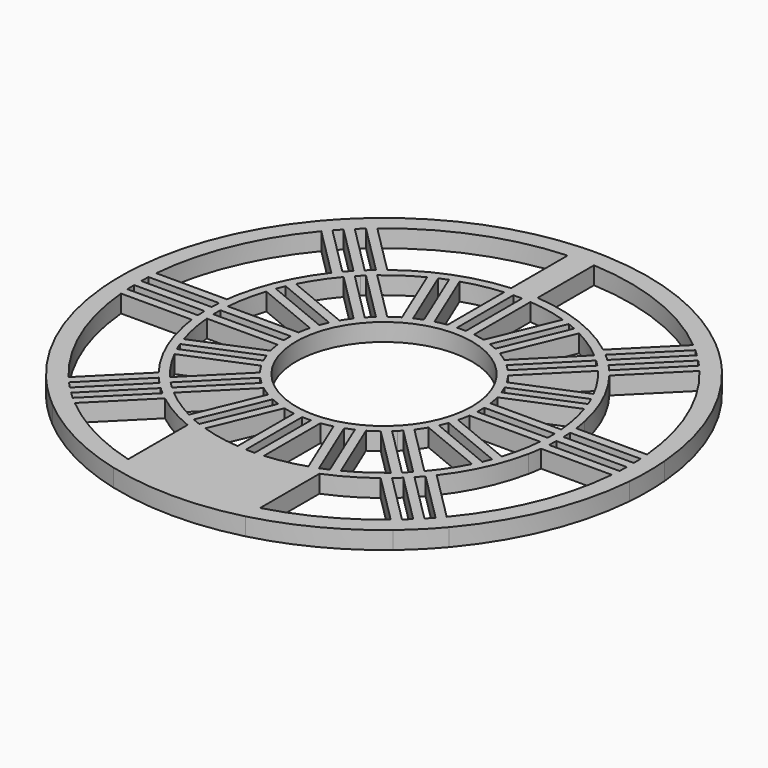
from build123d import *

# Parameters (mm, degrees)
F0_R     = 10
F1_DEPTH = 2
F3_DEPTH = 25
F5_DEPTH = 25
F6_R     = 30
F6_R_2   = 28
F7_DEPTH = 2
F9_DEPTH = 25


with BuildPart() as f1:
    # F0 (on Top) → F1 (new body)
    with BuildSketch(Plane.XY):
        with BuildLine():
            ThreePointArc((0, 30), (-0.750235, 29.990618), (-1.5, 29.962477))
            Line((-1.5, 29.962477), (-1.5, 19.943671))
            ThreePointArc((-1.5, 19.943671), (-7.186984, 18.664063), (-12.263448, 15.798982))
            Line((-12.263448, 15.798982), (-19.371651, 22.907185))
            ThreePointArc((-19.371651, 22.907185), (-21.213203, 21.213203), (-22.907185, 19.371651))
            Line((-22.907185, 19.371651), (-15.798982, 12.263448))
            ThreePointArc((-15.798982, 12.263448), (-18.173356, 8.350396), (-19.595918, 4))
            ThreePointArc((-19.595918, 4), (-19.733784, 3.25235), (-19.843135, 2.5))
            Line((-19.843135, 2.5), (-29.895652, 2.5))
            ThreePointArc((-29.895652, 2.5), (-30, 0), (-29.895652, -2.5))
            Line((-29.895652, -2.5), (-19.843135, -2.5))
            ThreePointArc((-19.843135, -2.5), (-19.733784, -3.25235), (-19.595918, -4))
            ThreePointArc((-19.595918, -4), (-18.173356, -8.350396), (-15.798982, -12.263448))
            Line((-15.798982, -12.263448), (-22.907185, -19.371651))
            ThreePointArc((-22.907185, -19.371651), (-21.213203, -21.213203), (-19.371651, -22.907185))
            Line((-19.371651, -22.907185), (-12.263448, -15.798982))
            ThreePointArc((-12.263448, -15.798982), (-9.976344, -17.334144), (-7.5, -18.540496))
            Line((-7.5, -18.540496), (-7.5, -29.047375))
            ThreePointArc((-7.5, -29.047375), (0, -30), (7.5, -29.047375))
            Line((7.5, -29.047375), (7.5, -18.540496))
            ThreePointArc((7.5, -18.540496), (9.976344, -17.334144), (12.263448, -15.798982))
            Line((12.263448, -15.798982), (19.371651, -22.907185))
            ThreePointArc((19.371651, -22.907185), (21.213203, -21.213203), (22.907185, -19.371651))
            Line((22.907185, -19.371651), (15.798982, -12.263448))
            ThreePointArc((15.798982, -12.263448), (18.173356, -8.350396), (19.595918, -4))
            ThreePointArc((19.595918, -4), (19.733784, -3.25235), (19.843135, -2.5))
            Line((19.843135, -2.5), (29.895652, -2.5))
            ThreePointArc((29.895652, -2.5), (30, 0), (29.895652, 2.5))
            Line((29.895652, 2.5), (19.843135, 2.5))
            ThreePointArc((19.843135, 2.5), (19.733784, 3.25235), (19.595918, 4))
            ThreePointArc((19.595918, 4), (18.173356, 8.350396), (15.798982, 12.263448))
            Line((15.798982, 12.263448), (22.907185, 19.371651))
            ThreePointArc((22.907185, 19.371651), (21.213203, 21.213203), (19.371651, 22.907185))
            Line((19.371651, 22.907185), (12.263448, 15.798982))
            ThreePointArc((12.263448, 15.798982), (7.186984, 18.664063), (1.5, 19.943671))
            Line((1.5, 19.943671), (1.5, 29.962477))
            ThreePointArc((1.5, 29.962477), (0.750235, 29.990618), (0, 30))
        make_face()
        Circle(F0_R, mode=Mode.SUBTRACT)
    extrude(amount=F1_DEPTH)

    # F2 (on face) → F3 (cut)
    with BuildSketch(Plane.XY.offset(2)):
        Polygon((0, 19), (-0.5, 19), (-0.5, 11), (0, 11), (0.5, 11), (0.5, 19), align=None)
        Polygon((4.671458, 9.971333), (7.732925, 17.362369), (7.270985, 17.553711), (6.809045, 17.745053), (3.747578, 10.354017), (4.209518, 10.162675), align=None)
        Polygon((8.131728, 7.424621), (13.788582, 13.081475), (13.435029, 13.435029), (13.081475, 13.788582), (7.424621, 8.131728), (7.778175, 7.778175), align=None)
        Polygon((10.354017, 3.747578), (17.745053, 6.809045), (17.553711, 7.270985), (17.362369, 7.732925), (9.971333, 4.671458), (10.162675, 4.209518), align=None)
        Polygon((11, -0.5), (19, -0.5), (19, 0), (19, 0.5), (11, 0.5), (11, 0), align=None)
        Polygon((9.971333, -4.671458), (17.362369, -7.732925), (17.553711, -7.270985), (17.745053, -6.809045), (10.354017, -3.747578), (10.162675, -4.209518), align=None)
        Polygon((7.424621, -8.131728), (13.081475, -13.788582), (13.435029, -13.435029), (13.788582, -13.081475), (8.131728, -7.424621), (7.778175, -7.778175), align=None)
        Polygon((3.747578, -10.354017), (6.809045, -17.745053), (7.270985, -17.553711), (7.732925, -17.362369), (4.671458, -9.971333), (4.209518, -10.162675), align=None)
        Polygon((-0.5, -11), (-0.5, -19), (0, -19), (0.5, -19), (0.5, -11), (0, -11), align=None)
        Polygon((-13.435029, 13.435029), (-13.788582, 13.081475), (-8.131728, 7.424621), (-7.778175, 7.778175), (-7.424621, 8.131728), (-13.081475, 13.788582), align=None)
        Polygon((-11, 0.5), (-19, 0.5), (-19, 0), (-19, -0.5), (-11, -0.5), (-11, 0), align=None)
        Polygon((-10.354017, -3.747578), (-17.745053, -6.809045), (-17.553711, -7.270985), (-17.362369, -7.732925), (-9.971333, -4.671458), (-10.162675, -4.209518), align=None)
        Polygon((-7.778175, -7.778175), (-8.131728, -7.424621), (-13.788582, -13.081475), (-13.435029, -13.435029), (-13.081475, -13.788582), (-7.424621, -8.131728), align=None)
        Polygon((-17.553711, 7.270985), (-17.745053, 6.809045), (-10.354017, 3.747578), (-10.162675, 4.209518), (-9.971333, 4.671458), (-17.362369, 7.732925), align=None)
        Polygon((-7.270985, -17.553711), (-6.809045, -17.745053), (-3.747578, -10.354017), (-4.209518, -10.162675), (-4.671458, -9.971333), (-7.732925, -17.362369), align=None)
        Polygon((-7.270985, 17.553711), (-7.732925, 17.362369), (-4.671458, 9.971333), (-4.209518, 10.162675), (-3.747578, 10.354017), (-6.809045, 17.745053), align=None)
    extrude(amount=-F3_DEPTH, mode=Mode.SUBTRACT)

    # F4 (on face) → F5 (cut)
    with BuildSketch(Plane.XY.offset(2)):
        with BuildLine():
            ThreePointArc((-2.788764, 10.652361), (-2.148209, 10.799778), (-1.5, 10.908712))
            Line((-1.5, 10.908712), (-1.5, 18.93245))
            ThreePointArc((-1.5, 18.93245), (-3.705112, 18.626857), (-5.859316, 18.065328))
            Line((-5.859316, 18.065328), (-2.788764, 10.652361))
        make_face()
        with BuildLine():
            Line((2.788764, 10.652361), (5.859316, 18.065328))
            ThreePointArc((5.859316, 18.065328), (3.705112, 18.626857), (1.5, 18.93245))
            Line((1.5, 18.93245), (1.5, 10.908712))
            ThreePointArc((1.5, 10.908712), (2.148209, 10.799778), (2.788764, 10.652361))
        make_face()
        with BuildLine():
            Line((6.652964, 8.774284), (12.326604, 14.447924))
            ThreePointArc((12.326604, 14.447924), (10.551267, 15.791087), (8.630954, 16.917278))
            Line((8.630954, 16.917278), (5.560403, 9.504311))
            ThreePointArc((5.560403, 9.504311), (6.117583, 9.155609), (6.652964, 8.774284))
        make_face()
        with BuildLine():
            Line((9.504311, 5.560403), (16.917278, 8.630954))
            ThreePointArc((16.917278, 8.630954), (15.791087, 10.551267), (14.447924, 12.326604))
            Line((14.447924, 12.326604), (8.774284, 6.652964))
            ThreePointArc((8.774284, 6.652964), (9.155609, 6.117583), (9.504311, 5.560403))
        make_face()
        with BuildLine():
            Line((10.908712, 1.5), (18.93245, 1.5))
            ThreePointArc((18.93245, 1.5), (18.626857, 3.705112), (18.065328, 5.859316))
            Line((18.065328, 5.859316), (10.652361, 2.788764))
            ThreePointArc((10.652361, 2.788764), (10.799778, 2.148209), (10.908712, 1.5))
        make_face()
        with BuildLine():
            Line((10.652361, -2.788764), (18.065328, -5.859316))
            ThreePointArc((18.065328, -5.859316), (18.626857, -3.705112), (18.93245, -1.5))
            Line((18.93245, -1.5), (10.908712, -1.5))
            ThreePointArc((10.908712, -1.5), (10.799778, -2.148209), (10.652361, -2.788764))
        make_face()
        with BuildLine():
            Line((8.774284, -6.652964), (14.447924, -12.326604))
            ThreePointArc((14.447924, -12.326604), (15.791087, -10.551267), (16.917278, -8.630954))
            Line((16.917278, -8.630954), (9.504311, -5.560403))
            ThreePointArc((9.504311, -5.560403), (9.155609, -6.117583), (8.774284, -6.652964))
        make_face()
        with BuildLine():
            Line((5.560403, -9.504311), (8.630954, -16.917278))
            ThreePointArc((8.630954, -16.917278), (10.551267, -15.791087), (12.326604, -14.447924))
            Line((12.326604, -14.447924), (6.652964, -8.774284))
            ThreePointArc((6.652964, -8.774284), (6.117583, -9.155609), (5.560403, -9.504311))
        make_face()
        with BuildLine():
            Line((1.5, -10.908712), (1.5, -18.93245))
            ThreePointArc((1.5, -18.93245), (3.705112, -18.626857), (5.859316, -18.065328))
            Line((5.859316, -18.065328), (2.788764, -10.652361))
            ThreePointArc((2.788764, -10.652361), (2.148209, -10.799778), (1.5, -10.908712))
        make_face()
        with BuildLine():
            ThreePointArc((-8.630954, 16.917278), (-10.551267, 15.791087), (-12.326604, 14.447924))
            Line((-12.326604, 14.447924), (-6.652964, 8.774284))
            ThreePointArc((-6.652964, 8.774284), (-6.117583, 9.155609), (-5.560403, 9.504311))
            Line((-5.560403, 9.504311), (-8.630954, 16.917278))
        make_face()
        with BuildLine():
            Line((-18.93245, 1.5), (-10.908712, 1.5))
            ThreePointArc((-10.908712, 1.5), (-10.799778, 2.148209), (-10.652361, 2.788764))
            Line((-10.652361, 2.788764), (-18.065328, 5.859316))
            ThreePointArc((-18.065328, 5.859316), (-18.626857, 3.705112), (-18.93245, 1.5))
        make_face()
        with BuildLine():
            Line((-14.447924, -12.326604), (-8.774284, -6.652964))
            ThreePointArc((-8.774284, -6.652964), (-9.155609, -6.117583), (-9.504311, -5.560403))
            Line((-9.504311, -5.560403), (-16.917278, -8.630954))
            ThreePointArc((-16.917278, -8.630954), (-15.791087, -10.551267), (-14.447924, -12.326604))
        make_face()
        with BuildLine():
            Line((-18.065328, -5.859316), (-10.652361, -2.788764))
            ThreePointArc((-10.652361, -2.788764), (-10.799778, -2.148209), (-10.908712, -1.5))
            Line((-10.908712, -1.5), (-18.93245, -1.5))
            ThreePointArc((-18.93245, -1.5), (-18.626857, -3.705112), (-18.065328, -5.859316))
        make_face()
        with BuildLine():
            Line((-16.917278, 8.630954), (-9.504311, 5.560403))
            ThreePointArc((-9.504311, 5.560403), (-9.155609, 6.117583), (-8.774284, 6.652964))
            Line((-8.774284, 6.652964), (-14.447924, 12.326604))
            ThreePointArc((-14.447924, 12.326604), (-15.791087, 10.551267), (-16.917278, 8.630954))
        make_face()
        with BuildLine():
            ThreePointArc((-12.326604, -14.447924), (-10.551267, -15.791087), (-8.630954, -16.917278))
            Line((-8.630954, -16.917278), (-5.560403, -9.504311))
            ThreePointArc((-5.560403, -9.504311), (-6.117583, -9.155609), (-6.652964, -8.774284))
            Line((-6.652964, -8.774284), (-12.326604, -14.447924))
        make_face()
        with BuildLine():
            ThreePointArc((-1.5, -10.908712), (-2.148209, -10.799778), (-2.788764, -10.652361))
            Line((-2.788764, -10.652361), (-5.859316, -18.065328))
            ThreePointArc((-5.859316, -18.065328), (-3.705112, -18.626857), (-1.5, -18.93245))
            Line((-1.5, -18.93245), (-1.5, -10.908712))
        make_face()
    extrude(amount=-F5_DEPTH, mode=Mode.SUBTRACT)

    # F6 (on Top) → F7 (join)
    with BuildSketch(Plane.XY):
        Circle(F6_R)
        Circle(F6_R_2, mode=Mode.SUBTRACT)
    extrude(amount=F7_DEPTH)

    # F8 (on face) → F9 (cut)
    with BuildSketch(Plane.XY.offset(2)):
        with BuildLine():
            ThreePointArc((-19.993749, 0.5), (-19.974969, 1.000313), (-19.943671, 1.5))
            Line((-19.943671, 1.5), (-27.959793, 1.5))
            ThreePointArc((-27.959793, 1.5), (-27.982131, 1.00016), (-27.995535, 0.5))
            Line((-27.995535, 0.5), (-19.993749, 0.5))
        make_face()
        with BuildLine():
            ThreePointArc((-19.943671, -1.5), (-19.974969, -1.000313), (-19.993749, -0.5))
            Line((-19.993749, -0.5), (-27.995535, -0.5))
            ThreePointArc((-27.995535, -0.5), (-27.982131, -1.00016), (-27.959793, -1.5))
            Line((-27.959793, -1.5), (-19.943671, -1.5))
        make_face()
        with BuildLine():
            Line((27.959793, 1.5), (19.943671, 1.5))
            ThreePointArc((19.943671, 1.5), (19.974969, 1.000313), (19.993749, 0.5))
            Line((19.993749, 0.5), (27.995535, 0.5))
            ThreePointArc((27.995535, 0.5), (27.982131, 1.00016), (27.959793, 1.5))
        make_face()
        with BuildLine():
            Line((27.995535, -0.5), (19.993749, -0.5))
            ThreePointArc((19.993749, -0.5), (19.974969, -1.000313), (19.943671, -1.5))
            Line((19.943671, -1.5), (27.959793, -1.5))
            ThreePointArc((27.959793, -1.5), (27.982131, -1.00016), (27.995535, -0.5))
        make_face()
        with BuildLine():
            ThreePointArc((-15.162965, 13.041645), (-14.831764, 13.417107), (-14.491269, 13.784162))
            Line((-14.491269, 13.784162), (-20.149386, 19.44228))
            ThreePointArc((-20.149386, 19.44228), (-20.493575, 19.079135), (-20.831219, 18.709899))
            Line((-20.831219, 18.709899), (-15.162965, 13.041645))
        make_face()
        with BuildLine():
            ThreePointArc((-13.784162, 14.491269), (-13.417107, 14.831764), (-13.041645, 15.162965))
            Line((-13.041645, 15.162965), (-18.709899, 20.831219))
            ThreePointArc((-18.709899, 20.831219), (-19.079135, 20.493575), (-19.44228, 20.149386))
            Line((-19.44228, 20.149386), (-13.784162, 14.491269))
        make_face()
        with BuildLine():
            Line((-18.709899, -20.831219), (-13.041645, -15.162965))
            ThreePointArc((-13.041645, -15.162965), (-13.417107, -14.831764), (-13.784162, -14.491269))
            Line((-13.784162, -14.491269), (-19.44228, -20.149386))
            ThreePointArc((-19.44228, -20.149386), (-19.079135, -20.493575), (-18.709899, -20.831219))
        make_face()
        with BuildLine():
            Line((-20.149386, -19.44228), (-14.491269, -13.784162))
            ThreePointArc((-14.491269, -13.784162), (-14.831764, -13.417107), (-15.162965, -13.041645))
            Line((-15.162965, -13.041645), (-20.831219, -18.709899))
            ThreePointArc((-20.831219, -18.709899), (-20.493575, -19.079135), (-20.149386, -19.44228))
        make_face()
        with BuildLine():
            Line((18.709899, 20.831219), (13.041645, 15.162965))
            ThreePointArc((13.041645, 15.162965), (13.417107, 14.831764), (13.784162, 14.491269))
            Line((13.784162, 14.491269), (19.44228, 20.149386))
            ThreePointArc((19.44228, 20.149386), (19.079135, 20.493575), (18.709899, 20.831219))
        make_face()
        with BuildLine():
            Line((20.149386, 19.44228), (14.491269, 13.784162))
            ThreePointArc((14.491269, 13.784162), (14.831764, 13.417107), (15.162965, 13.041645))
            Line((15.162965, 13.041645), (20.831219, 18.709899))
            ThreePointArc((20.831219, 18.709899), (20.493575, 19.079135), (20.149386, 19.44228))
        make_face()
        with BuildLine():
            ThreePointArc((13.784162, -14.491269), (13.417107, -14.831764), (13.041645, -15.162965))
            Line((13.041645, -15.162965), (18.709899, -20.831219))
            ThreePointArc((18.709899, -20.831219), (19.079135, -20.493575), (19.44228, -20.149386))
            Line((19.44228, -20.149386), (13.784162, -14.491269))
        make_face()
        with BuildLine():
            ThreePointArc((15.162965, -13.041645), (14.831764, -13.417107), (14.491269, -13.784162))
            Line((14.491269, -13.784162), (20.149386, -19.44228))
            ThreePointArc((20.149386, -19.44228), (20.493575, -19.079135), (20.831219, -18.709899))
            Line((20.831219, -18.709899), (15.162965, -13.041645))
        make_face()
    extrude(amount=-F9_DEPTH, mode=Mode.SUBTRACT)


solid = f1.part
